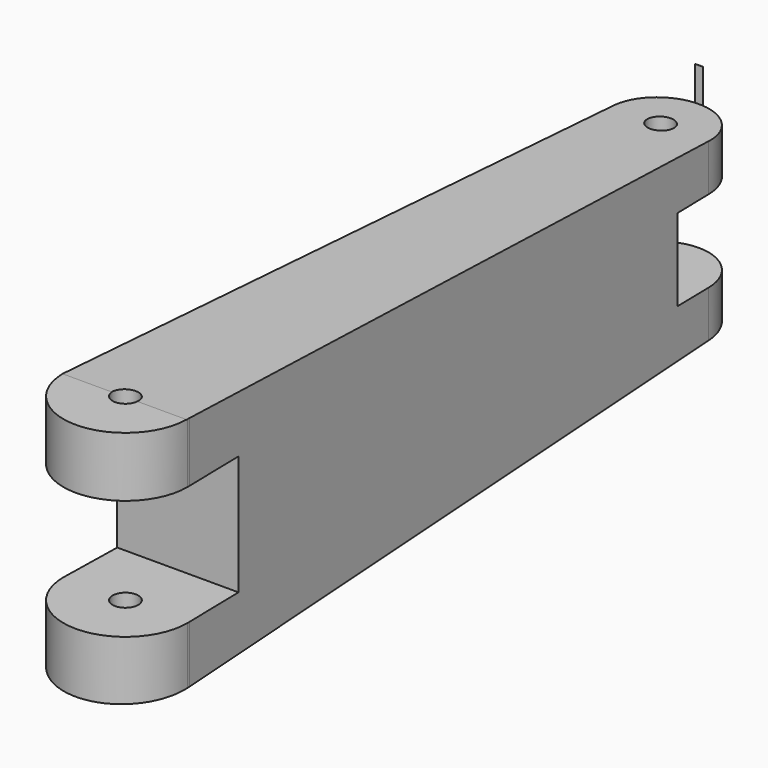
from build123d import *

# Parameters (mm, degrees)
F1_DEPTH = 14
F2_W     = 11.5
F2_H     = 2.4
F2_W_2   = 7.4604106426
F2_H_2   = 3.5
F3_DEPTH = 12.5


with BuildPart() as f1:
    # F0 (on Top) → F1 (new body)
    with BuildSketch(Plane.XY):
        with BuildLine():
            Line((3.625, -25.2749305218), (3.6217764293, -25.1220891128))
            ThreePointArc((3.6217764293, -25.1220891128), (0, -21.6499305218), (-3.6217764293, -25.1220891128))
            Line((-3.6217764293, -25.1220891128), (-3.625, -25.2749305218))
            Line((-3.625, -25.2749305218), (-0.75, -25.2749305218))
            ThreePointArc((-0.75, -25.2749305218), (0, -24.5249305218), (0.75, -25.2749305218))
            Line((0.75, -25.2749305218), (3.625, -25.2749305218))
        make_face()
        with BuildLine():
            Line((3.6217764293, -25.1220891128), (2.8, 13.841370428))
            ThreePointArc((2.8, 13.841370428), (0, 11.041370428), (-2.8, 13.841370428))
            Line((-2.8, 13.841370428), (-3.6217764293, -25.1220891128))
            ThreePointArc((-3.6217764293, -25.1220891128), (0, -21.6499305218), (3.6217764293, -25.1220891128))
        make_face()
        with BuildLine():
            Line((0.75, 13.841370428), (2.8, 13.841370428))
            ThreePointArc((2.8, 13.841370428), (0, 16.641370428), (-2.8, 13.841370428))
            Line((-2.8, 13.841370428), (-0.75, 13.841370428))
            ThreePointArc((-0.75, 13.841370428), (0, 14.591370428), (0.75, 13.841370428))
        make_face()
        with BuildLine():
            ThreePointArc((-3.625, -25.2749305218), (0, -28.8999305218), (3.625, -25.2749305218))
            Line((3.625, -25.2749305218), (0.75, -25.2749305218))
            ThreePointArc((0.75, -25.2749305218), (0, -26.0249305218), (-0.75, -25.2749305218))
            Line((-0.75, -25.2749305218), (-3.625, -25.2749305218))
        make_face()
        with BuildLine():
            ThreePointArc((-2.8, 13.841370428), (0, 11.041370428), (2.8, 13.841370428))
            Line((2.8, 13.841370428), (0.75, 13.841370428))
            ThreePointArc((0.75, 13.841370428), (0, 13.091370428), (-0.75, 13.841370428))
            Line((-0.75, 13.841370428), (-2.8, 13.841370428))
        make_face()
    extrude(amount=F1_DEPTH)

    # F2 (on Right) → F3 (cut, symmetric)
    with BuildSketch(Plane.YZ):
        Polygon((-28.9036631584, 17.2806195915), (-28.9036631584, 14.1698746011), (16.6315902025, 12), (16.6315902025, 18.462985754), align=None)
        Polygon((16.6315902025, 2), (-28.9036631584, 0), (16.7194342289, 0), align=None)
        with Locations((17.2709319741, 5.8)):
            Rectangle(F2_W, F2_H)
        with Locations((17.2709319741, 8.2)):
            Rectangle(F2_W, F2_H)
        with Locations((-25.1734578371, 8.75)):
            Rectangle(F2_W_2, F2_H_2)
        with Locations((-25.1734578371, 5.25)):
            Rectangle(F2_W_2, F2_H_2)
    extrude(amount=F3_DEPTH, both=True, mode=Mode.SUBTRACT)


solid = f1.part
